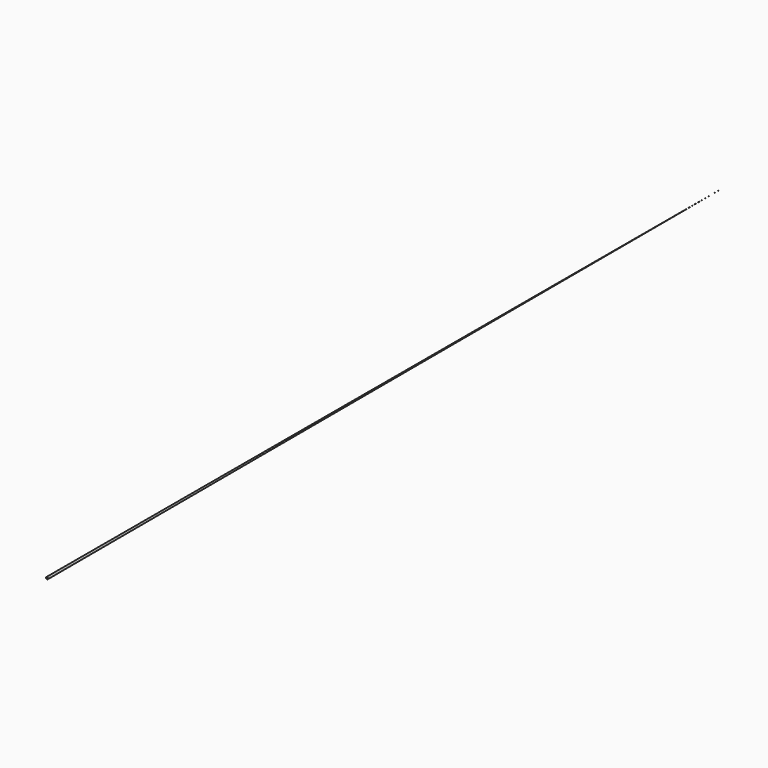
from build123d import *

# Parameters (mm, degrees)
F3_R = 0.006937
F2_R = 1.5875


with BuildPart() as f4:
    # F3 (on offset) → F4 section 0
    with BuildSketch(Plane.XZ.offset(-635)):
        Circle(F3_R)
    # F2 (on offset) → F4 section 1
    with BuildSketch(Plane.XZ.offset(635)):
        Circle(F2_R)
    loft()


solid = f4.part
